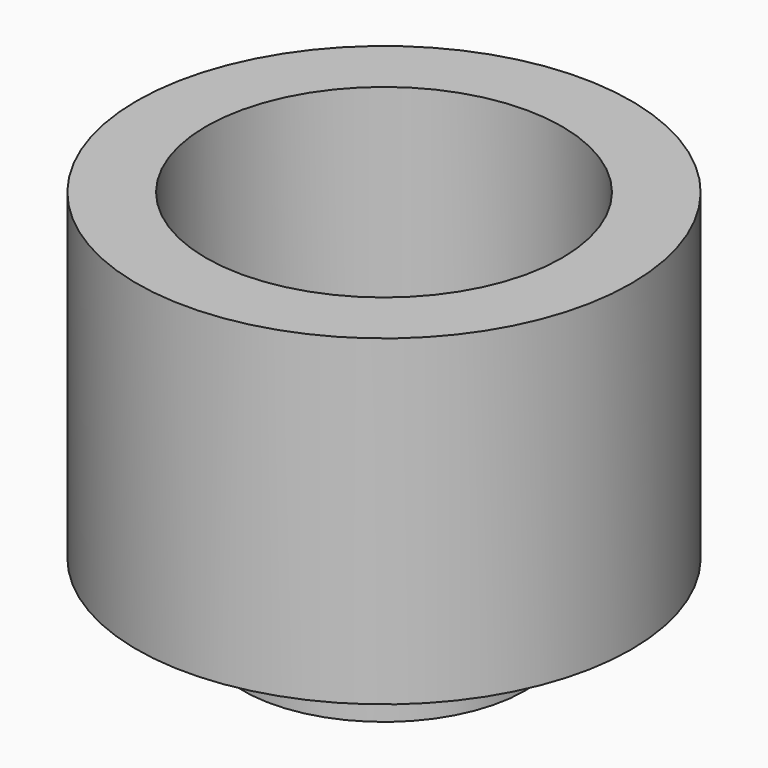
from build123d import *

# Parameters (mm, degrees)
F0_R     = 6.35
F0_R_2   = 3.175
F1_DEPTH = 3.175
F2_R     = 11.1125
F2_R_2   = 3.175
F3_DEPTH = 14.478
F4_R     = 8.001
F5_DEPTH = 12.7


with BuildPart() as f1:
    # F0 (on Top) → F1 (new body)
    with BuildSketch(Plane.XY):
        Circle(F0_R)
        Circle(F0_R_2, mode=Mode.SUBTRACT)
    extrude(amount=F1_DEPTH)

    # F2 (on face) → F3 (join)
    with BuildSketch(Plane.XY.offset(3.175)):
        Circle(F2_R)
        Circle(F2_R_2, mode=Mode.SUBTRACT)
    extrude(amount=F3_DEPTH)

    # F4 (on face) → F5 (cut)
    with BuildSketch(Plane.XY.offset(17.653)):
        Circle(F4_R)
    extrude(amount=-F5_DEPTH, mode=Mode.SUBTRACT)


solid = f1.part
